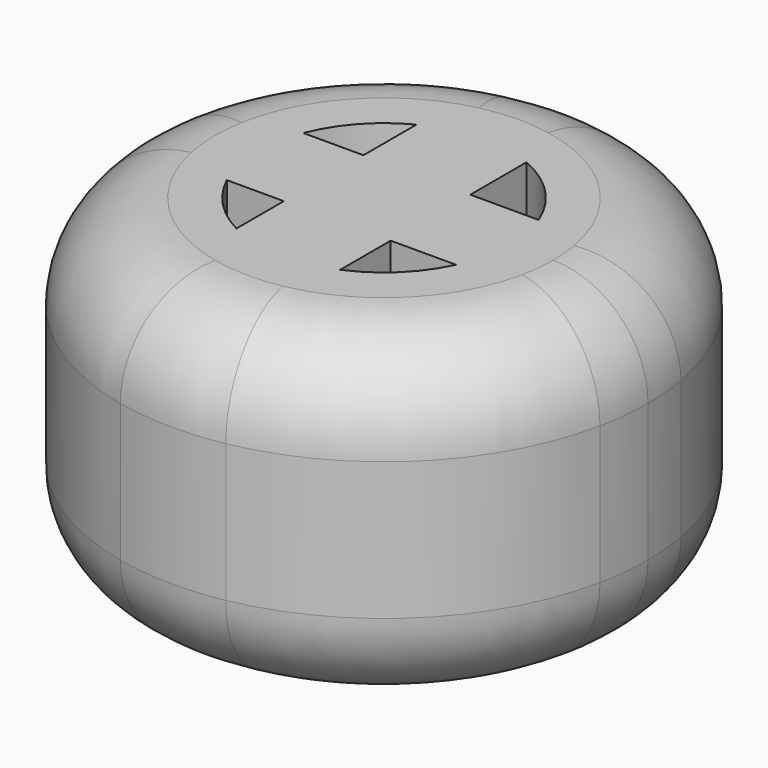
from build123d import *

# Parameters (mm, degrees)
F1_DEPTH = 12.7
F2_R     = 7.358523


with BuildPart() as f1:
    # F0 (on Top) → F1 (new body, symmetric)
    with BuildSketch(Plane.XY):
        with BuildLine():
            ThreePointArc((-9.112925, 3.578075), (-7.255439, 6.573174), (-4.457727, 8.716461))
            Line((-4.457727, 8.716461), (-4.457727, 19.957473))
            ThreePointArc((-4.457727, 19.957473), (-14.773518, 14.139138), (-20.133788, 3.578075))
            Line((-20.133788, 3.578075), (-9.112925, 3.578075))
        make_face()
        with BuildLine():
            Line((-4.457727, 19.957473), (-4.457727, 8.716461))
            Line((-4.457727, 8.716461), (-4.457727, 3.578075))
            Line((-4.457727, 3.578075), (-9.112925, 3.578075))
            Line((-9.112925, 3.578075), (-20.133788, 3.578075))
            ThreePointArc((-20.133788, 3.578075), (-20.447333, -0.280406), (-20.028099, -4.128838))
            Line((-20.028099, -4.128838), (-8.876977, -4.128838))
            Line((-8.876977, -4.128838), (-4.457727, -4.128838))
            Line((-4.457727, -4.128838), (-4.457727, -8.716461))
            Line((-4.457727, -8.716461), (-4.457727, -19.957473))
            ThreePointArc((-4.457727, -19.957473), (-0.326308, -20.446652), (3.818616, -20.089555))
            Line((3.818616, -20.089555), (3.818616, -9.014776))
            Line((3.818616, -9.014776), (3.818616, -4.128838))
            Line((3.818616, -4.128838), (8.876977, -4.128838))
            Line((8.876977, -4.128838), (20.028099, -4.128838))
            ThreePointArc((20.028099, -4.128838), (20.343694, -2.075131), (20.449256, 0))
            ThreePointArc((20.449256, 0), (20.370236, 1.795978), (20.133788, 3.578075))
            Line((20.133788, 3.578075), (9.112925, 3.578075))
            Line((9.112925, 3.578075), (3.818616, 3.578075))
            Line((3.818616, 3.578075), (3.818616, 9.014776))
            Line((3.818616, 9.014776), (3.818616, 20.089555))
            ThreePointArc((3.818616, 20.089555), (-0.326308, 20.446652), (-4.457727, 19.957473))
        make_face()
        with BuildLine():
            ThreePointArc((20.133788, 3.578075), (14.546019, 14.373079), (3.818616, 20.089555))
            Line((3.818616, 20.089555), (3.818616, 9.014776))
            ThreePointArc((3.818616, 9.014776), (7.013958, 6.830257), (9.112925, 3.578075))
            Line((9.112925, 3.578075), (20.133788, 3.578075))
        make_face()
        with BuildLine():
            Line((-8.876977, -4.128838), (-20.028099, -4.128838))
            ThreePointArc((-20.028099, -4.128838), (-14.578249, -14.340387), (-4.457727, -19.957473))
            Line((-4.457727, -19.957473), (-4.457727, -8.716461))
            ThreePointArc((-4.457727, -8.716461), (-7.050897, -6.792118), (-8.876977, -4.128838))
        make_face()
        with BuildLine():
            Line((3.818616, -9.014776), (3.818616, -20.089555))
            ThreePointArc((3.818616, -20.089555), (14.347564, -14.571187), (20.028099, -4.128838))
            Line((20.028099, -4.128838), (8.876977, -4.128838))
            ThreePointArc((8.876977, -4.128838), (6.801663, -7.04169), (3.818616, -9.014776))
        make_face()
    extrude(amount=F1_DEPTH, both=True)

    # F2
    f2_edges = [f1.edges().sort_by_distance(p)[0] for p in [
        (20.028099, 4.128838, 12.7),
        (20.028099, 4.128838, -12.7),
    ]]
    fillet(f2_edges, radius=F2_R)


solid = f1.part
